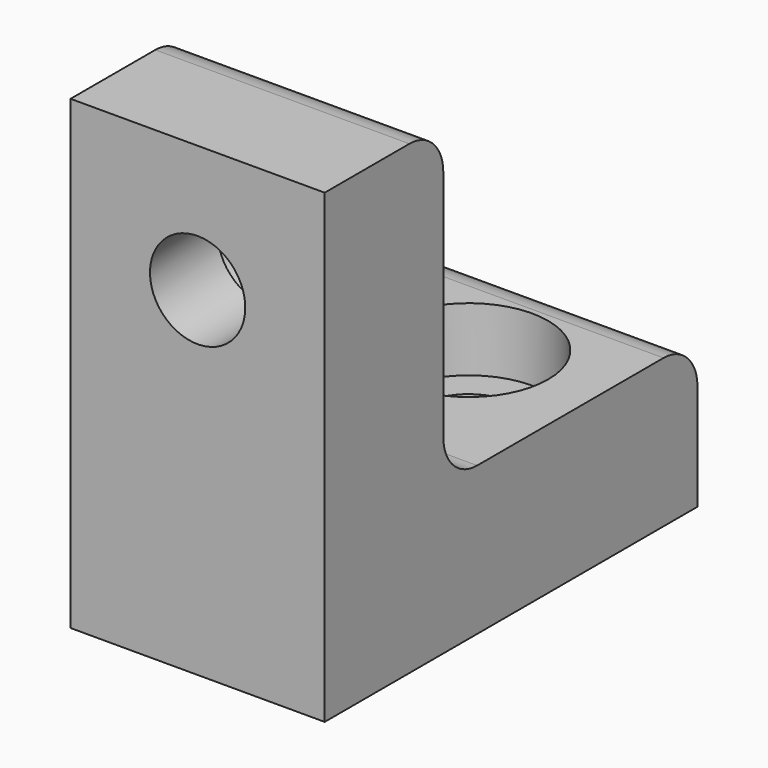
from build123d import *

# Parameters (mm, degrees)
SKETCH_W        = 12
SKETCH_H        = 22
PAD_DEPTH       = 7
SKETCH001_W     = 12
SKETCH001_H     = 7
PAD001_DEPTH    = 15
SKETCH002_R     = 2.25
POCKET_DEPTH    = 10
SKETCH003_R     = 3.75
POCKET001_DEPTH = 3
SKETCH004_R     = 2.25
POCKET002_DEPTH = 7
SKETCH005_R     = 3.75
POCKET003_DEPTH = 3
FILLET_R        = 2


with BuildPart() as part:
    # Sketch → Pad (new body)
    with BuildSketch(Plane.XY):
        with Locations((0, 11)):
            Rectangle(SKETCH_W, SKETCH_H)
    extrude(amount=PAD_DEPTH)

    # Sketch001 (on Face6 of Pad) → Pad001 (join)
    with BuildSketch(Plane.XY.offset(7)):
        with Locations((0, 3.5)):
            Rectangle(SKETCH001_W, SKETCH001_H)
    extrude(amount=PAD001_DEPTH)

    # Sketch002 (on Face3 of Pad001) → Pocket (cut)
    with BuildSketch(Plane.XY.offset(7)):
        with Locations((0, 16)):
            Circle(SKETCH002_R)
    extrude(amount=-POCKET_DEPTH, mode=Mode.SUBTRACT)

    # Sketch003 (on Face9 of Pocket) → Pocket001 (cut)
    with BuildSketch(Plane.XY.offset(7)):
        with Locations((0, 16)):
            Circle(SKETCH003_R)
    extrude(amount=-POCKET001_DEPTH, mode=Mode.SUBTRACT)

    # Sketch004 (on Face8 of Pocket001) → Pocket002 (cut)
    with BuildSketch(Plane(origin=(0, 7, 0), x_dir=(-1, 0, 0), z_dir=(0, 1, 0))):
        with Locations((0, 16)):
            Circle(SKETCH004_R)
    extrude(amount=-POCKET002_DEPTH, mode=Mode.SUBTRACT)

    # Sketch005 (on Face9 of Pocket002) → Pocket003 (cut)
    with BuildSketch(Plane(origin=(0, 7, 0), x_dir=(-1, 0, 0), z_dir=(0, 1, 0))):
        with Locations((0, 16)):
            Circle(SKETCH005_R)
    extrude(amount=-POCKET003_DEPTH, mode=Mode.SUBTRACT)

    # Fillet
    fillet_edges = [part.edges().sort_by_distance(p)[0] for p in [
        (0, 7, 7),
        (0, 7, 22),
        (0, 22, 7),
    ]]
    fillet(fillet_edges, radius=FILLET_R)


solid = part.part
